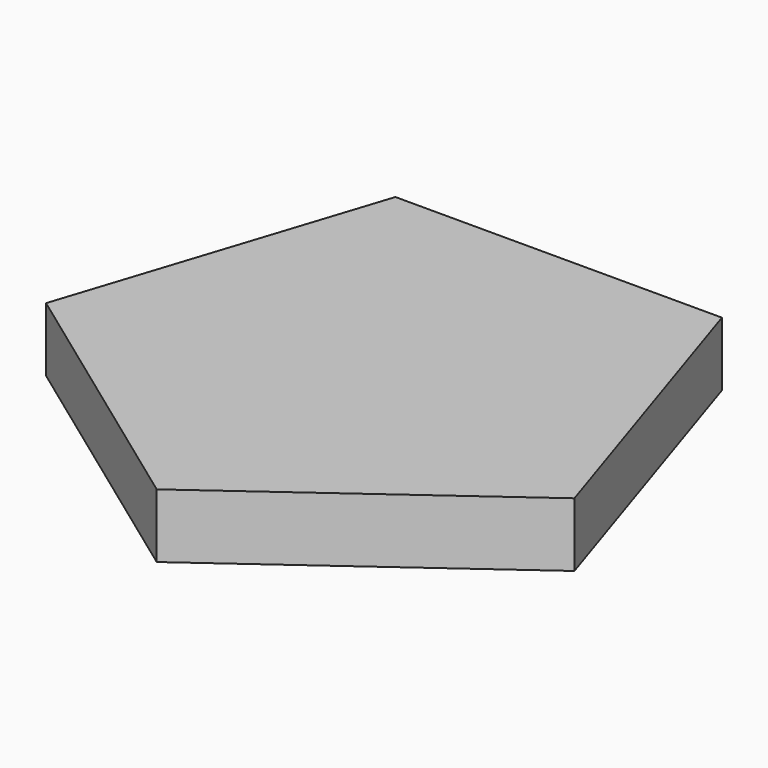
from build123d import *

# Parameters (mm, degrees)
F1_DEPTH = 18
F3_DEPTH = 80


with BuildPart() as f1:
    # F0 (on Top) → F1 (new body)
    with BuildSketch(Plane.XY):
        Polygon((444.386186, -117.506794), (289.877689, 358.021464), (-210.122311, 358.021464), (-364.630808, -117.506794), (39.877689, -411.39942), align=None)
    extrude(amount=F1_DEPTH)

    # F2 (on face) → F3 (join)
    with BuildSketch(Plane(origin=(0, 0, 0), x_dir=(1, 0, 0), z_dir=(0, 0, -1))):
        Polygon((-364.630808, 117.506794), (-210.122311, -358.021464), (289.877689, -358.021464), (444.386186, 117.506794), (39.877689, 411.39942), align=None)
        Polygon((276.799923, -340.021464), (-197.044546, -340.021464), (-343.470539, 110.631406), (39.877689, 389.150196), (423.225917, 110.631406), align=None, mode=Mode.SUBTRACT)
    extrude(amount=F3_DEPTH)


solid = f1.part
